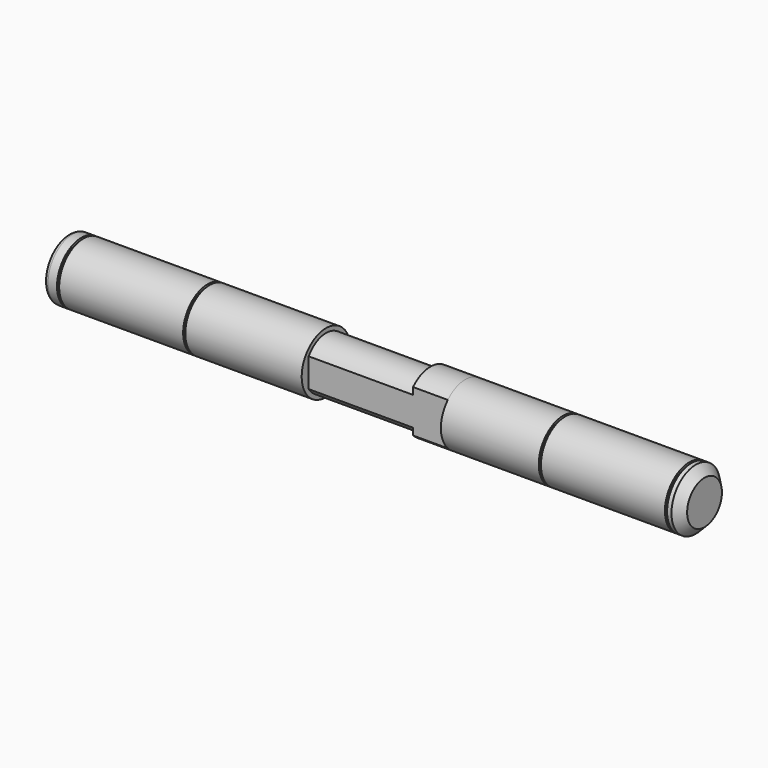
from build123d import *

# Parameters (mm, degrees)
F1_DEPTH  = 19.05
F3_DEPTH  = 12.7
F4_R      = 11.1125
F5_DEPTH  = 35.71748
F6_R      = 11.1125
F7_DEPTH  = 42.46626
F8_R      = 10.3505
F9_DEPTH  = 0.7874
F10_R     = 10.3505
F11_DEPTH = 0.7874
F12_R     = 11.1125
F13_DEPTH = 45.24248
F14_R     = 10.3505
F15_DEPTH = 0.7874
F16_R     = 11.1125
F17_DEPTH = 4.7752
F18_R     = 1.524
F19_R     = 11.1125
F20_DEPTH = 45.24248
F21_R     = 10.3505
F22_DEPTH = 0.7874
F23_R     = 11.1125
F24_DEPTH = 4.7752
F25_SIZE  = 3.175


with BuildPart() as f1:
    # F0 (on Right) → F1 (new body, symmetric)
    with BuildSketch(Plane.YZ):
        with BuildLine():
            Line((7.9375, -5.2651418547), (7.9375, 5.2651418547))
            ThreePointArc((7.9375, 5.2651418547), (0, 9.525), (-7.9375, 5.2651418547))
            Line((-7.9375, 5.2651418547), (-7.9375, -5.2651418547))
            ThreePointArc((-7.9375, -5.2651418547), (0, -9.525), (7.9375, -5.2651418547))
        make_face()
    extrude(amount=F1_DEPTH, both=True)

    # F2 (on face) → F3 (join)
    with BuildSketch(Plane.YZ.offset(19.05)):
        with BuildLine():
            Line((-7.9375, 7.7771299333), (-7.9375, -7.7771299333))
            ThreePointArc((-7.9375, -7.7771299333), (0, -11.1125), (7.9375, -7.7771299333))
            Line((7.9375, -7.7771299333), (7.9375, 7.7771299333))
            ThreePointArc((7.9375, 7.7771299333), (0, 11.1125), (-7.9375, 7.7771299333))
        make_face()
    extrude(amount=F3_DEPTH)

    # F4 (on face) → F5 (join)
    with BuildSketch(Plane.YZ.offset(31.75)):
        Circle(F4_R)
    extrude(amount=F5_DEPTH)

    # F6 (on face) → F7 (join)
    with BuildSketch(Plane(origin=(-19.05, 0, 0), x_dir=(0, -1, 0), z_dir=(-1, 0, 0))):
        Circle(F6_R)
    extrude(amount=F7_DEPTH)

    # F8 (on face) → F9 (join)
    with BuildSketch(Plane.YZ.offset(67.46748)):
        Circle(F8_R)
    extrude(amount=F9_DEPTH)

    # F10 (on face) → F11 (join)
    with BuildSketch(Plane(origin=(-61.51626, 0, 0), x_dir=(0, -1, 0), z_dir=(-1, 0, 0))):
        Circle(F10_R)
    extrude(amount=F11_DEPTH)

    # F12 (on face) → F13 (join)
    with BuildSketch(Plane(origin=(-62.30366, 0, 0), x_dir=(0, -1, 0), z_dir=(-1, 0, 0))):
        Circle(F12_R)
    extrude(amount=F13_DEPTH)

    # F14 (on face) → F15 (join)
    with BuildSketch(Plane(origin=(-107.54614, 0, 0), x_dir=(0, -1, 0), z_dir=(-1, 0, 0))):
        Circle(F14_R)
    extrude(amount=F15_DEPTH)

    # F16 (on face) → F17 (join)
    with BuildSketch(Plane(origin=(-108.33354, 0, 0), x_dir=(0, -1, 0), z_dir=(-1, 0, 0))):
        Circle(F16_R)
    extrude(amount=F17_DEPTH)

    # F18
    f18_edges = [f1.edges().sort_by_distance(p)[0] for p in [
        (-113.10874, 11.1125, 0),
    ]]
    fillet(f18_edges, radius=F18_R)

    # F19 (on face) → F20 (join)
    with BuildSketch(Plane.YZ.offset(68.25488)):
        Circle(F19_R)
    extrude(amount=F20_DEPTH)

    # F21 (on face) → F22 (join)
    with BuildSketch(Plane.YZ.offset(113.49736)):
        Circle(F21_R)
    extrude(amount=F22_DEPTH)

    # F23 (on face) → F24 (join)
    with BuildSketch(Plane.YZ.offset(114.28476)):
        Circle(F23_R)
    extrude(amount=F24_DEPTH)

    # F25
    f25_edges = [f1.edges().sort_by_distance(p)[0] for p in [
        (119.05996, -11.1125, 0),
    ]]
    chamfer(f25_edges, length=F25_SIZE)


solid = f1.part
